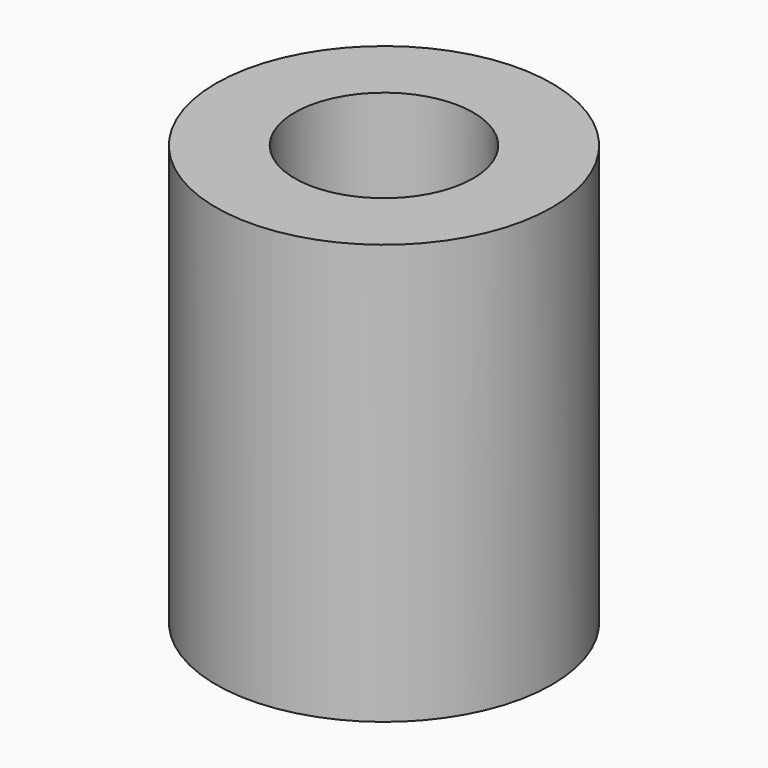
from build123d import *

# Parameters (mm, degrees)
SKETCH_R      = 4
SKETCH_R_2    = 2.125
PAD_DEPTH     = 10
SKETCH001_R   = 4
SKETCH001_R_2 = 1.25
PAD001_DEPTH  = 2


with BuildPart() as part:
    # Sketch → Pad (new body)
    with BuildSketch(Plane.XY):
        Circle(SKETCH_R)
        Circle(SKETCH_R_2, mode=Mode.SUBTRACT)
    extrude(amount=PAD_DEPTH)

    # Sketch001 → Pad001 (join)
    with BuildSketch(Plane.XY):
        Circle(SKETCH001_R)
        Circle(SKETCH001_R_2, mode=Mode.SUBTRACT)
    extrude(amount=PAD001_DEPTH)


solid = part.part
